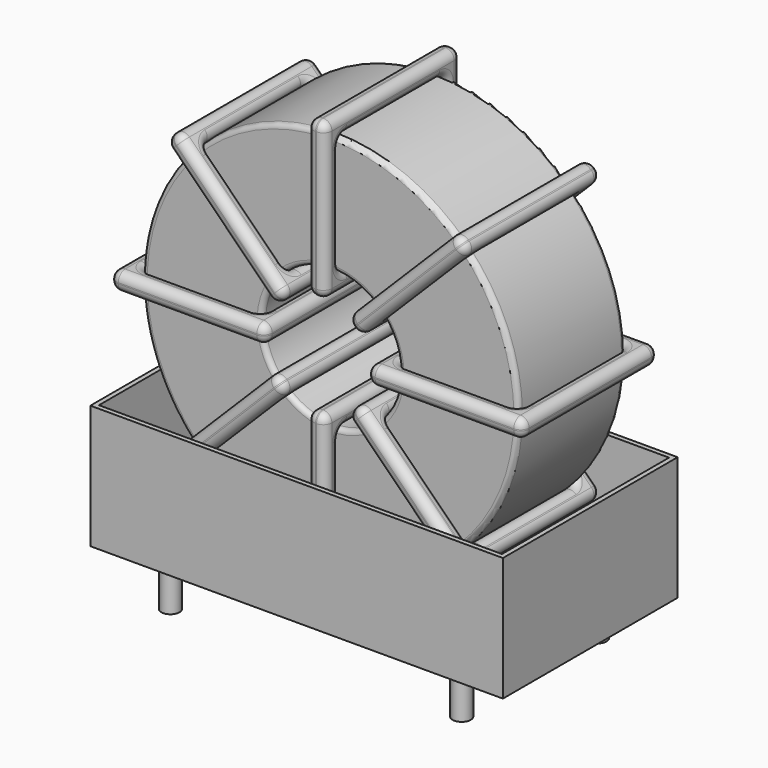
from build123d import *

# Parameters (mm, degrees)
SKETCH001_R   = 0.95
PAD001_DEPTH  = 5
SKETCH_R      = 19.69
SKETCH_R_2    = 7.196667
PAD_DEPTH     = 6.99
FILLET_R      = 0.5
SKETCH003_W   = 16.293333
SKETCH003_H   = 17.78
SKETCH003_W_2 = 12.493333
SKETCH003_H_2 = 13.98
PAD002_DEPTH  = 0.95
FILLET001_R   = 0.893
SKETCH004_W   = 16.293333
SKETCH004_H   = 17.78
SKETCH004_W_2 = 12.493333
SKETCH004_H_2 = 13.98
PAD003_DEPTH  = 0.95
FILLET002_R   = 0.893
SKETCH005_W   = 16.293333
SKETCH005_H   = 17.78
SKETCH005_W_2 = 12.493333
SKETCH005_H_2 = 13.98
PAD004_DEPTH  = 0.95
FILLET003_R   = 0.893
SKETCH006_W   = 16.293333
SKETCH006_H   = 17.78
SKETCH006_W_2 = 12.493333
SKETCH006_H_2 = 13.98
PAD005_DEPTH  = 0.95
FILLET004_R   = 0.893
SKETCH007_W   = 43.18
SKETCH007_H   = 22.86
PAD006_DEPTH  = 0.5
SKETCH008_W   = 43.18
SKETCH008_H   = 22.86
SKETCH008_W_2 = 42.18
SKETCH008_H_2 = 21.86
PAD007_DEPTH  = 12.954


with BuildPart() as pad001:
    # Sketch001 → Pad001 (new body)
    with BuildSketch(Plane.XY.offset(0.75)):
        Circle(SKETCH001_R)
        with Locations((30.48, -17.78)):
            Circle(SKETCH001_R)
        with Locations((0, -17.78)):
            Circle(SKETCH001_R)
        with Locations((30.48, 0)):
            Circle(SKETCH001_R)
    extrude(amount=-PAD001_DEPTH)


with BuildPart() as fillet_body:
    # Sketch → Pad (new body, symmetric)
    with BuildSketch(Plane(origin=(15.24, -8.89, 0), x_dir=(1, 0, 0), z_dir=(0, -1, 0))):
        with Locations((0, 23.99)):
            Circle(SKETCH_R)
        with Locations((0, 23.99)):
            Circle(SKETCH_R_2, mode=Mode.SUBTRACT)
    extrude(amount=PAD_DEPTH, both=True)

    # Fillet
    fillet_edges = [fillet_body.edges().sort_by_distance(p)[0] for p in [
        (8.043333, -15.88, 23.99),
        (-4.45, -15.88, 23.99),
        (-4.45, -1.9, 23.99),
    ]]
    fillet(fillet_edges, radius=FILLET_R)


with BuildPart() as fillet001:
    # Sketch003 → Pad002 (new body, symmetric)
    with BuildSketch(Plane(origin=(15.24, 0, 23.99), x_dir=(1, 0, 0), z_dir=(0, 0, -1))):
        with Locations((-13.443333, 8.89)):
            Rectangle(SKETCH003_W, SKETCH003_H)
        with Locations((-13.443333, 8.89)):
            Rectangle(SKETCH003_W_2, SKETCH003_H_2, mode=Mode.SUBTRACT)
        with Locations((13.443333, 8.89)):
            Rectangle(SKETCH003_W, SKETCH003_H)
        with Locations((13.443333, 8.89)):
            Rectangle(SKETCH003_W_2, SKETCH003_H_2, mode=Mode.SUBTRACT)
    extrude(amount=PAD002_DEPTH, both=True)

    # Fillet001
    fillet001_edges = [fillet001.edges().sort_by_distance(p)[0] for p in [
        (8.043333, -15.88, 23.99),
        (8.043333, -1.9, 23.99),
        (8.043333, -8.89, 24.94),
        (8.043333, -8.89, 23.04),
        (-6.35, -17.78, 23.99),
        (9.943333, -17.78, 23.99),
        (1.796667, -17.78, 24.94),
        (1.796667, -17.78, 23.04),
        (9.943333, 0, 23.99),
        (9.943333, -8.89, 24.94),
        (9.943333, -8.89, 23.04),
        (22.436667, -15.88, 23.99),
        (34.93, -15.88, 23.99),
        (28.683333, -15.88, 24.94),
        (28.683333, -15.88, 23.04),
        (34.93, -1.9, 23.99),
        (34.93, -8.89, 24.94),
        (34.93, -8.89, 23.04),
        (20.536667, -17.78, 23.99),
        (36.83, -17.78, 23.99),
        (28.683333, -17.78, 24.94),
        (28.683333, -17.78, 23.04),
        (36.83, 0, 23.99),
        (36.83, -8.89, 24.94),
        (36.83, -8.89, 23.04),
        (-4.45, -15.88, 23.99),
        (1.796667, -15.88, 24.94),
        (1.796667, -15.88, 23.04),
        (22.436667, -1.9, 23.99),
        (22.436667, -8.89, 24.94),
        (22.436667, -8.89, 23.04),
        (28.683333, -1.9, 24.94),
        (28.683333, -1.9, 23.04),
        (20.536667, 0, 23.99),
        (28.683333, 0, 24.94),
        (28.683333, 0, 23.04),
        (20.536667, -8.89, 24.94),
        (20.536667, -8.89, 23.04),
        (-6.35, 0, 23.99),
        (1.796667, 0, 24.94),
        (1.796667, 0, 23.04),
        (-6.35, -8.89, 24.94),
        (-6.35, -8.89, 23.04),
        (-4.45, -1.9, 23.99),
        (-4.45, -8.89, 24.94),
        (-4.45, -8.89, 23.04),
        (1.796667, -1.9, 24.94),
        (1.796667, -1.9, 23.04),
    ]]
    fillet(fillet001_edges, radius=FILLET001_R)


with BuildPart() as fillet002:
    # Sketch004 → Pad003 (new body, symmetric)
    with BuildSketch(Plane(origin=(15.24, 0, 23.99), x_dir=(0.707108, 0, 0.707106), z_dir=(0.707106, 0, -0.707108))):
        with Locations((-13.443333, 8.89)):
            Rectangle(SKETCH004_W, SKETCH004_H)
        with Locations((-13.443333, 8.89)):
            Rectangle(SKETCH004_W_2, SKETCH004_H_2, mode=Mode.SUBTRACT)
        with Locations((13.443333, 8.89)):
            Rectangle(SKETCH004_W, SKETCH004_H)
        with Locations((13.443333, 8.89)):
            Rectangle(SKETCH004_W_2, SKETCH004_H_2, mode=Mode.SUBTRACT)
    extrude(amount=PAD003_DEPTH, both=True)

    # Fillet002
    fillet002_edges = [fillet002.edges().sort_by_distance(p)[0] for p in [
        (10.151182, -15.88, 18.901194),
        (10.151182, -1.9, 18.901194),
        (9.479432, -8.89, 19.572946),
        (10.822933, -8.89, 18.229442),
        (-0.026453, -17.78, 8.723582),
        (11.494687, -17.78, 20.244695),
        (5.062366, -17.78, 15.155891),
        (6.405868, -17.78, 13.812387),
        (11.494687, 0, 20.244695),
        (10.822936, -8.89, 20.916448),
        (12.166437, -8.89, 19.572943),
        (20.328818, -1.9, 29.078806),
        (20.328818, -15.88, 29.078806),
        (19.657067, -8.89, 29.750558),
        (21.000568, -8.89, 28.407054),
        (29.162949, -1.9, 37.912916),
        (24.074132, -1.9, 34.167613),
        (25.417634, -1.9, 32.824109),
        (18.985313, -17.78, 27.735305),
        (30.506453, -17.78, 39.256418),
        (24.074132, -17.78, 34.167613),
        (25.417634, -17.78, 32.824109),
        (30.506453, 0, 39.256418),
        (29.834702, -8.89, 39.92817),
        (31.178204, -8.89, 38.584666),
        (1.317051, -15.88, 10.067084),
        (5.062366, -15.88, 15.155891),
        (6.405868, -15.88, 13.812387),
        (29.162949, -15.88, 37.912916),
        (24.074132, -15.88, 34.167613),
        (25.417634, -15.88, 32.824109),
        (28.491198, -8.89, 38.584669),
        (29.834699, -8.89, 37.241164),
        (18.985313, 0, 27.735305),
        (24.074132, 0, 34.167613),
        (25.417634, 0, 32.824109),
        (18.313563, -8.89, 28.407057),
        (19.657064, -8.89, 27.063552),
        (-0.026453, 0, 8.723582),
        (5.062366, 0, 15.155891),
        (6.405868, 0, 13.812387),
        (-0.698204, -8.89, 9.395334),
        (0.645298, -8.89, 8.05183),
        (1.317051, -1.9, 10.067084),
        (0.645301, -8.89, 10.738836),
        (1.988802, -8.89, 9.395331),
        (5.062366, -1.9, 15.155891),
        (6.405868, -1.9, 13.812387),
    ]]
    fillet(fillet002_edges, radius=FILLET002_R)


with BuildPart() as fillet003:
    # Sketch005 → Pad004 (new body, symmetric)
    with BuildSketch(Plane(origin=(15.24, 0, 23.99), x_dir=(0.707108, 0, -0.707106), z_dir=(-0.707106, 0, -0.707108))):
        with Locations((-13.443333, 8.89)):
            Rectangle(SKETCH005_W, SKETCH005_H)
        with Locations((-13.443333, 8.89)):
            Rectangle(SKETCH005_W_2, SKETCH005_H_2, mode=Mode.SUBTRACT)
        with Locations((13.443333, 8.89)):
            Rectangle(SKETCH005_W, SKETCH005_H)
        with Locations((13.443333, 8.89)):
            Rectangle(SKETCH005_W_2, SKETCH005_H_2, mode=Mode.SUBTRACT)
    extrude(amount=PAD004_DEPTH, both=True)

    # Fillet003
    fillet003_edges = [fillet003.edges().sort_by_distance(p)[0] for p in [
        (10.151182, -15.88, 29.078806),
        (10.151182, -1.9, 29.078806),
        (10.822933, -8.89, 29.750558),
        (9.479432, -8.89, 28.407054),
        (-0.026453, -17.78, 39.256418),
        (11.494687, -17.78, 27.735305),
        (6.405868, -17.78, 34.167613),
        (5.062366, -17.78, 32.824109),
        (11.494687, 0, 27.735305),
        (12.166437, -8.89, 28.407057),
        (10.822936, -8.89, 27.063552),
        (20.328818, -15.88, 18.901194),
        (29.162949, -15.88, 10.067084),
        (25.417634, -15.88, 15.155891),
        (24.074132, -15.88, 13.812387),
        (29.162949, -1.9, 10.067084),
        (29.834699, -8.89, 10.738836),
        (28.491198, -8.89, 9.395331),
        (18.985313, 0, 20.244695),
        (18.985313, -17.78, 20.244695),
        (19.657064, -8.89, 20.916448),
        (18.313563, -8.89, 19.572943),
        (30.506453, 0, 8.723582),
        (25.417634, 0, 15.155891),
        (24.074132, 0, 13.812387),
        (1.317051, -15.88, 37.912916),
        (6.405868, -15.88, 34.167613),
        (5.062366, -15.88, 32.824109),
        (20.328818, -1.9, 18.901194),
        (21.000568, -8.89, 19.572946),
        (19.657067, -8.89, 18.229442),
        (25.417634, -1.9, 15.155891),
        (24.074132, -1.9, 13.812387),
        (30.506453, -17.78, 8.723582),
        (31.178204, -8.89, 9.395334),
        (29.834702, -8.89, 8.05183),
        (25.417634, -17.78, 15.155891),
        (24.074132, -17.78, 13.812387),
        (-0.026453, 0, 39.256418),
        (6.405868, 0, 34.167613),
        (5.062366, 0, 32.824109),
        (0.645298, -8.89, 39.92817),
        (-0.698204, -8.89, 38.584666),
        (1.317051, -1.9, 37.912916),
        (1.988802, -8.89, 38.584669),
        (0.645301, -8.89, 37.241164),
        (6.405868, -1.9, 34.167613),
        (5.062366, -1.9, 32.824109),
    ]]
    fillet(fillet003_edges, radius=FILLET003_R)


with BuildPart() as fillet004:
    # Sketch006 → Pad005 (new body, symmetric)
    with BuildSketch(Plane(origin=(15.24, 0, 23.99), x_dir=(0, 0, 1), z_dir=(1, 0, 0))):
        with Locations((-13.443333, 8.89)):
            Rectangle(SKETCH006_W, SKETCH006_H)
        with Locations((-13.443333, 8.89)):
            Rectangle(SKETCH006_W_2, SKETCH006_H_2, mode=Mode.SUBTRACT)
        with Locations((13.443333, 8.89)):
            Rectangle(SKETCH006_W, SKETCH006_H)
        with Locations((13.443333, 8.89)):
            Rectangle(SKETCH006_W_2, SKETCH006_H_2, mode=Mode.SUBTRACT)
    extrude(amount=PAD005_DEPTH, both=True)

    # Fillet004
    fillet004_edges = [fillet004.edges().sort_by_distance(p)[0] for p in [
        (15.24, -15.88, 16.793333),
        (15.24, -1.9, 16.793333),
        (14.29, -8.89, 16.793333),
        (16.19, -8.89, 16.793333),
        (15.24, -17.78, 2.4),
        (15.24, -17.78, 18.693333),
        (14.29, -17.78, 10.546667),
        (16.19, -17.78, 10.546667),
        (15.24, 0, 18.693333),
        (14.29, -8.89, 18.693333),
        (16.19, -8.89, 18.693333),
        (15.24, -15.88, 31.186667),
        (15.24, -15.88, 43.68),
        (14.29, -15.88, 37.433333),
        (16.19, -15.88, 37.433333),
        (15.24, -1.9, 43.68),
        (14.29, -8.89, 43.68),
        (16.19, -8.89, 43.68),
        (15.24, -17.78, 29.286667),
        (15.24, -17.78, 45.58),
        (14.29, -17.78, 37.433333),
        (16.19, -17.78, 37.433333),
        (15.24, 0, 45.58),
        (14.29, -8.89, 45.58),
        (16.19, -8.89, 45.58),
        (15.24, -15.88, 4.3),
        (14.29, -15.88, 10.546667),
        (16.19, -15.88, 10.546667),
        (15.24, -1.9, 31.186667),
        (14.29, -8.89, 31.186667),
        (16.19, -8.89, 31.186667),
        (14.29, -1.9, 37.433333),
        (16.19, -1.9, 37.433333),
        (15.24, 0, 29.286667),
        (14.29, 0, 37.433333),
        (16.19, 0, 37.433333),
        (14.29, -8.89, 29.286667),
        (16.19, -8.89, 29.286667),
        (15.24, 0, 2.4),
        (14.29, 0, 10.546667),
        (16.19, 0, 10.546667),
        (14.29, -8.89, 2.4),
        (16.19, -8.89, 2.4),
        (15.24, -1.9, 4.3),
        (14.29, -8.89, 4.3),
        (16.19, -8.89, 4.3),
        (14.29, -1.9, 10.546667),
        (16.19, -1.9, 10.546667),
    ]]
    fillet(fillet004_edges, radius=FILLET004_R)


with BuildPart() as pad006:
    # Sketch007 → Pad006 (new body)
    with BuildSketch(Plane(origin=(15.24, 0, 0.5), x_dir=(1, 0, 0), z_dir=(0, 0, 1))):
        with Locations((0, -8.89)):
            Rectangle(SKETCH007_W, SKETCH007_H)
    extrude(amount=PAD006_DEPTH)


with BuildPart() as pad007:
    # Sketch008 → Pad007 (new body)
    with BuildSketch(Plane(origin=(15.24, 0, 0.5), x_dir=(1, 0, 0), z_dir=(0, 0, 1))):
        with Locations((0, -8.89)):
            Rectangle(SKETCH008_W, SKETCH008_H)
        with Locations((0, -8.89)):
            Rectangle(SKETCH008_W_2, SKETCH008_H_2, mode=Mode.SUBTRACT)
    extrude(amount=PAD007_DEPTH)


solid = Compound([pad001.part, fillet_body.part, fillet001.part, fillet002.part, fillet003.part, fillet004.part, pad006.part, pad007.part])
